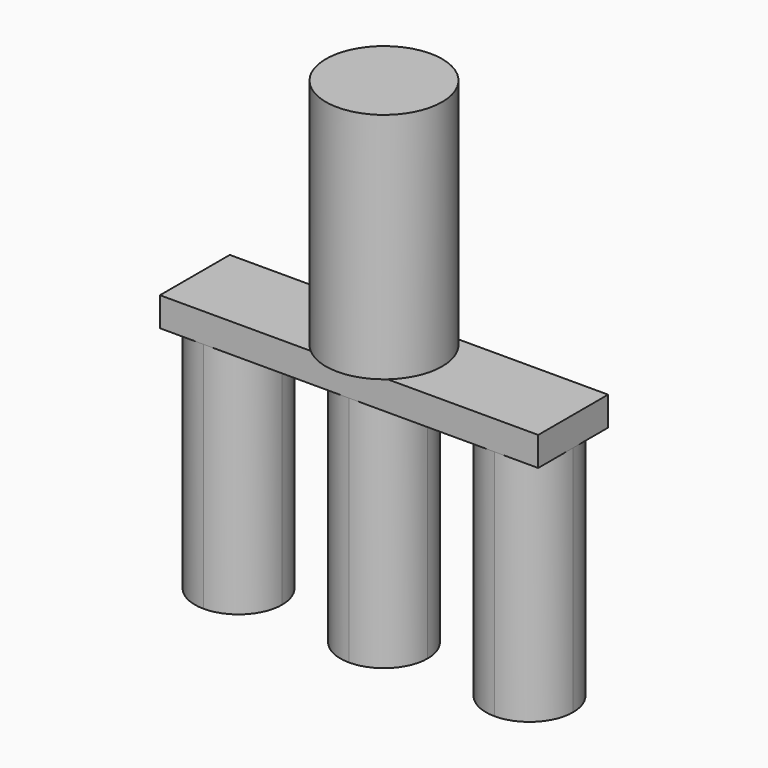
from build123d import *

# Parameters (mm, degrees)
F0_W     = 165.1
F0_H     = 38.1
F1_DEPTH = 12.7
F2_R     = 25.4
F3_DEPTH = 101.6
F5_DEPTH = 101.6


with BuildPart() as f1:
    # F0 (on Top) → F1 (new body)
    with BuildSketch(Plane.XY):
        Rectangle(F0_W, F0_H)
    extrude(amount=F1_DEPTH)

    # F2 (on face) → F3 (join)
    with BuildSketch(Plane.XY.offset(12.7)):
        Circle(F2_R)
    extrude(amount=F3_DEPTH)

    # F4 (on face) → F5 (join)
    with BuildSketch(Plane(origin=(0, 0, 0), x_dir=(1, 0, 0), z_dir=(0, 0, -1))):
        with BuildLine():
            ThreePointArc((0, -19.05), (13.470384, -13.470384), (19.05, 0))
            ThreePointArc((19.05, 0), (13.470384, 13.470384), (0, 19.05))
            ThreePointArc((0, 19.05), (-19.05, 0), (0, -19.05))
        make_face()
        with BuildLine():
            ThreePointArc((82.55, 0), (76.970384, 13.470384), (63.5, 19.05))
            ThreePointArc((63.5, 19.05), (44.45, 0), (63.5, -19.05))
            ThreePointArc((63.5, -19.05), (76.970384, -13.470384), (82.55, 0))
        make_face()
        with BuildLine():
            ThreePointArc((-44.45, 0), (-50.029616, 13.470384), (-63.5, 19.05))
            ThreePointArc((-63.5, 19.05), (-76.970384, 13.470384), (-82.55, 0))
            ThreePointArc((-82.55, 0), (-76.970384, -13.470384), (-63.5, -19.05))
            ThreePointArc((-63.5, -19.05), (-50.029616, -13.470384), (-44.45, 0))
        make_face()
    extrude(amount=F5_DEPTH)


solid = f1.part
